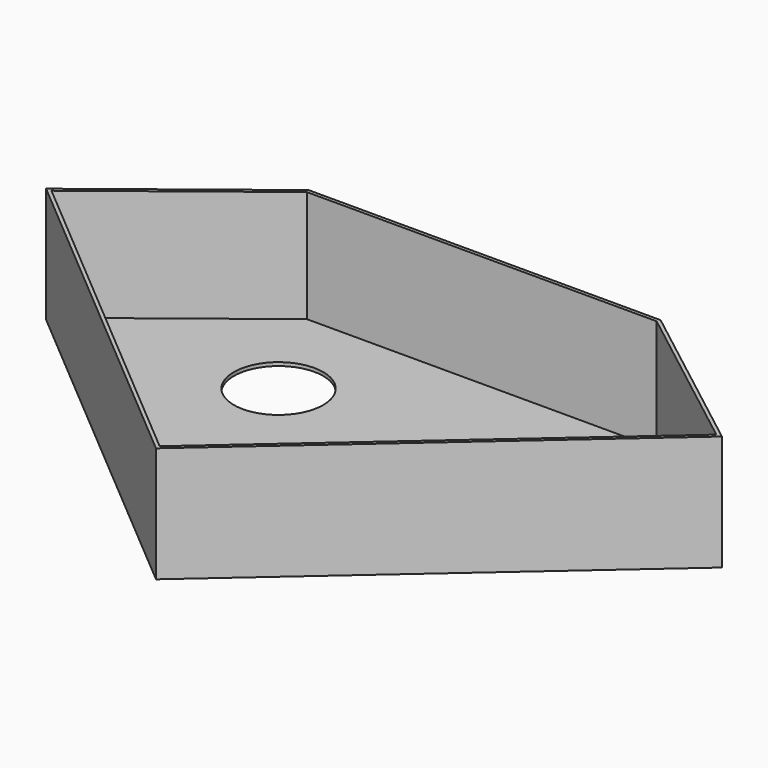
from build123d import *

# Parameters (mm, degrees)
F1_DEPTH = 25.4
F2_T     = -0.762
F3_R     = 12.012936
F4_DEPTH = 25.4
F5_R     = 12.868017
F5_R_2   = 9.8367
F6_DEPTH = 25.4


with BuildPart() as f1:
    # F0 (on Top) → F1 (new body)
    with BuildSketch(Plane.XY):
        Polygon((37.931472, 17.940195), (-39.611701, 17.940195), (-75.17679, -9.851208), (0, -73.559731), (73.252261, -9.331114), align=None)
    extrude(amount=F1_DEPTH)

    # F2
    f2_openings = [f1.faces().sort_by_distance(p)[0] for p in [
        (-0.795151, -17.594404, 25.4),
    ]]
    offset(amount=F2_T, openings=f2_openings)

    # F3 (on face) → F4 (cut)
    with BuildSketch(Plane(origin=(0, 0, 0), x_dir=(1, 0, 0), z_dir=(0, 0, -1))):
        with Locations((0, 27.955376)):
            Circle(F3_R)
    extrude(amount=-F4_DEPTH, mode=Mode.SUBTRACT)

    # F5 (on face) → F6 (cut)
    with BuildSketch(Plane(origin=(0, 0, 0), x_dir=(1, 0, 0), z_dir=(0, 0, -1))):
        with Locations((37.186667, 12.019401)):
            Circle(F5_R)
        with Locations((-27.019626, 6.043865)):
            Circle(F5_R_2)
    extrude(amount=-F6_DEPTH, mode=Mode.SUBTRACT)


solid = f1.part
